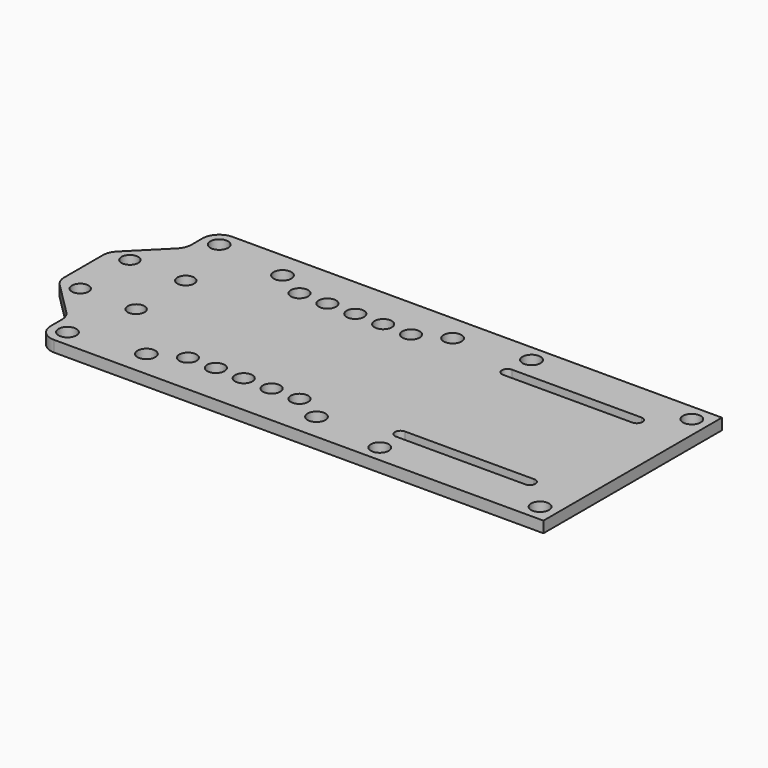
from build123d import *

# Parameters (mm, degrees)
F0_R     = 1.6
F0_R_2   = 1.5
F0_W     = 37.7
F0_H     = 37.7
F0_R_3   = 1.55
F1_DEPTH = 2
F2_R     = 3


with BuildPart() as f1:
    # F0 (on Top) → F1 (new body)
    with BuildSketch(Plane.XY):
        Polygon((-31, -20), (0, -20), (59.73597, -20), (59.73597, 0), (59.73597, 20), (0, 20), (-31, 20), (-31, 13.2831567489), (-38.7195013463, 5.5636554025), (-38.7195013463, -5.5636554025), (-31, -13.2831567489), align=None)
        with Locations((-28, -17)):
            Circle(F0_R, mode=Mode.SUBTRACT)
        with BuildLine():
            ThreePointArc((-33.3597506732, -5.5636554025), (-34.8597506732, -7.0636554025), (-36.3597506732, -5.5636554025))
            ThreePointArc((-36.3597506732, -5.5636554025), (-34.8597506732, -4.0636554025), (-33.3597506732, -5.5636554025))
        make_face(mode=Mode.SUBTRACT)
        with Locations((-24.844666943, -5.5636554025)):
            Circle(F0_R_2, mode=Mode.SUBTRACT)
        with Locations((28, -17)):
            Circle(F0_R, mode=Mode.SUBTRACT)
        with Locations((56.73597, -17)):
            Circle(F0_R, mode=Mode.SUBTRACT)
        with BuildLine():
            Line((27.7028705632, -11), (39.292985, -11))
            Line((39.292985, -11), (50.8830994368, -11))
            ThreePointArc((50.8830994368, -11), (51.8830994368, -12), (50.8830994368, -13))
            Line((50.8830994368, -13), (39.292985, -13))
            Line((39.292985, -13), (27.7028705632, -13))
            ThreePointArc((27.7028705632, -13), (26.7028705632, -12), (27.7028705632, -11))
        make_face(mode=Mode.SUBTRACT)
        with BuildLine():
            ThreePointArc((-33.3597506732, 5.5636554025), (-34.8597506732, 4.0636554025), (-36.3597506732, 5.5636554025))
            ThreePointArc((-36.3597506732, 5.5636554025), (-34.8597506732, 7.0636554025), (-33.3597506732, 5.5636554025))
        make_face(mode=Mode.SUBTRACT)
        with Locations((-24.844666943, 5.5636554025)):
            Circle(F0_R_2, mode=Mode.SUBTRACT)
        Rectangle(F0_W, F0_H, mode=Mode.SUBTRACT)
        with Locations((-28, 17)):
            Circle(F0_R, mode=Mode.SUBTRACT)
        with Locations((28, 17)):
            Circle(F0_R, mode=Mode.SUBTRACT)
        with BuildLine():
            Line((50.8830994368, 11), (39.292985, 11))
            Line((39.292985, 11), (27.7028705632, 11))
            ThreePointArc((27.7028705632, 11), (26.7028705632, 12), (27.7028705632, 13))
            Line((27.7028705632, 13), (39.292985, 13))
            Line((39.292985, 13), (50.8830994368, 13))
            ThreePointArc((50.8830994368, 13), (51.8830994368, 12), (50.8830994368, 11))
        make_face(mode=Mode.SUBTRACT)
        with Locations((56.73597, 17)):
            Circle(F0_R, mode=Mode.SUBTRACT)
        Rectangle(F0_W, F0_H)
        with Locations((-15.25, -15.25)):
            Circle(F0_R, mode=Mode.SUBTRACT)
        with Locations((-10, -12.5)):
            Circle(F0_R_3, mode=Mode.SUBTRACT)
        with Locations((-5, -12.5)):
            Circle(F0_R_3, mode=Mode.SUBTRACT)
        with Locations((0, -12.5)):
            Circle(F0_R_3, mode=Mode.SUBTRACT)
        with Locations((5, -12.5)):
            Circle(F0_R_3, mode=Mode.SUBTRACT)
        with Locations((10, -12.5)):
            Circle(F0_R_3, mode=Mode.SUBTRACT)
        with Locations((15.25, -15.25)):
            Circle(F0_R, mode=Mode.SUBTRACT)
        with Locations((-15.25, 15.25)):
            Circle(F0_R, mode=Mode.SUBTRACT)
        with Locations((-10, 12.5)):
            Circle(F0_R_3, mode=Mode.SUBTRACT)
        with Locations((-5, 12.5)):
            Circle(F0_R_3, mode=Mode.SUBTRACT)
        with Locations((0, 12.5)):
            Circle(F0_R_3, mode=Mode.SUBTRACT)
        with Locations((5, 12.5)):
            Circle(F0_R_3, mode=Mode.SUBTRACT)
        with Locations((10, 12.5)):
            Circle(F0_R_3, mode=Mode.SUBTRACT)
        with Locations((15.25, 15.25)):
            Circle(F0_R, mode=Mode.SUBTRACT)
    extrude(amount=F1_DEPTH)

    # F2
    f2_edges = [f1.edges().sort_by_distance(p)[0] for p in [
        (-31, -20, 1),
        (-31, 20, 1),
        (-31, 13.283157, 1),
        (-38.719501, 5.563655, 1),
        (-38.719501, -5.563655, 1),
        (-31, -13.283157, 1),
    ]]
    fillet(f2_edges, radius=F2_R)


solid = f1.part
